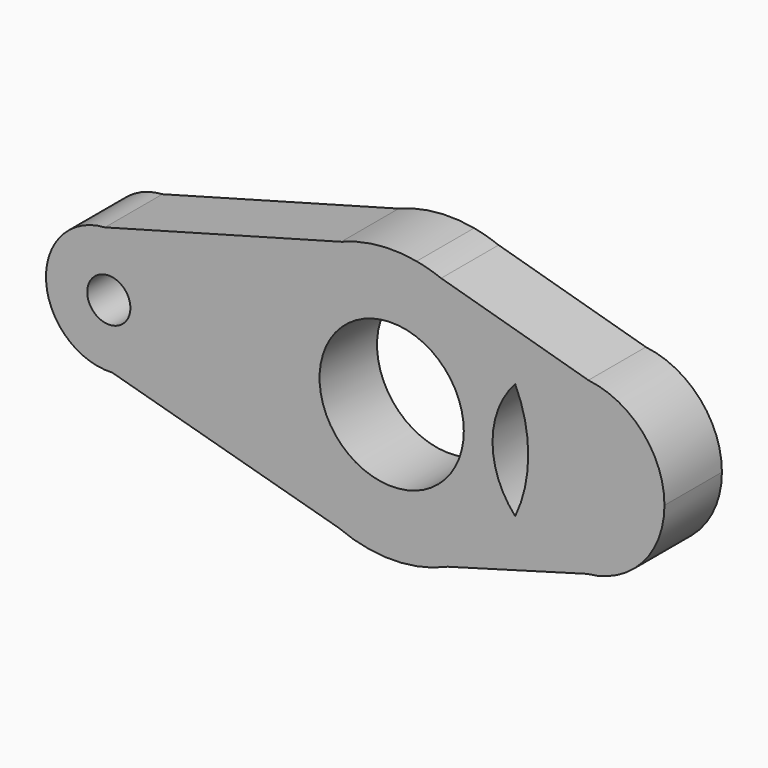
from build123d import *

# Parameters (mm, degrees)
F0_R     = 7.631953
F0_R_2   = 25.503006
F1_DEPTH = 25.4


with BuildPart() as f1:
    # F0 (on Front) → F1 (new body)
    with BuildSketch(Plane.XZ):
        with BuildLine():
            ThreePointArc((-77.450006, -22.187467), (-62.513883, -15.284636), (-56.421532, 0))
            ThreePointArc((-56.421532, 0), (-63.423372, 16.190358), (-80.016015, 22.176816))
            ThreePointArc((-80.016015, 22.176816), (-100.82327, -1.283015), (-77.450006, -22.187467))
        make_face()
        with Locations((-78.640938, 0)):
            Circle(F0_R, mode=Mode.SUBTRACT)
        with BuildLine():
            ThreePointArc((-80.016015, 22.176816), (-63.423372, 16.190358), (-56.421532, 0))
            ThreePointArc((-56.421532, 0), (-62.513883, -15.284636), (-77.450006, -22.187467))
            Line((-77.450006, -22.187467), (2.529821, -44.449052))
            ThreePointArc((2.529821, -44.449052), (-26.88959, 0.549721), (3.546719, 44.867014))
            Line((3.546719, 44.867014), (-80.016015, 22.176816))
        make_face()
        with BuildLine():
            ThreePointArc((30.21598, 47.473344), (16.696931, 48.057235), (3.546719, 44.867014))
            ThreePointArc((3.546719, 44.867014), (-26.88959, 0.549721), (2.529821, -44.449052))
            ThreePointArc((2.529821, -44.449052), (21.879089, -48.283738), (41.147314, -44.060645))
            ThreePointArc((41.147314, -44.060645), (55.216447, -34.461004), (65.077302, -20.573703))
            ThreePointArc((65.077302, -20.573703), (57.057115, 0), (65.077302, 20.573703))
            ThreePointArc((65.077302, 20.573703), (54.32786, 35.311196), (38.878237, 45.009308))
            Line((38.878237, 45.009308), (30.21598, 47.473344))
        make_face()
        with Locations((21.393461, 0)):
            Circle(F0_R_2, mode=Mode.SUBTRACT)
        with BuildLine():
            ThreePointArc((38.878237, 45.009308), (34.60468, 46.443717), (30.21598, 47.473344))
            Line((30.21598, 47.473344), (38.878237, 45.009308))
        make_face()
        with BuildLine():
            ThreePointArc((65.077302, -20.573703), (55.216447, -34.461004), (41.147314, -44.060645))
            Line((41.147314, -44.060645), (90.479543, -30.247541))
            ThreePointArc((90.479543, -30.247541), (76.636918, -28.408065), (65.077302, -20.573703))
        make_face()
        with BuildLine():
            Line((90.952081, 30.196563), (38.878237, 45.009308))
            ThreePointArc((38.878237, 45.009308), (54.32786, 35.311196), (65.077302, 20.573703))
            ThreePointArc((65.077302, 20.573703), (76.859329, 28.491771), (90.952081, 30.196563))
        make_face()
        with BuildLine():
            ThreePointArc((69.679641, 0), (68.515011, -10.541096), (65.077302, -20.573703))
            ThreePointArc((65.077302, -20.573703), (76.636918, -28.408065), (90.479543, -30.247541))
            ThreePointArc((90.479543, -30.247541), (109.994154, -20.39769), (117.853788, 0))
            ThreePointArc((117.853788, 0), (110.152925, 20.220869), (90.952081, 30.196563))
            ThreePointArc((90.952081, 30.196563), (76.859329, 28.491771), (65.077302, 20.573703))
            ThreePointArc((65.077302, 20.573703), (68.515011, 10.541096), (69.679641, 0))
        make_face()
    extrude(amount=F1_DEPTH)


solid = f1.part
